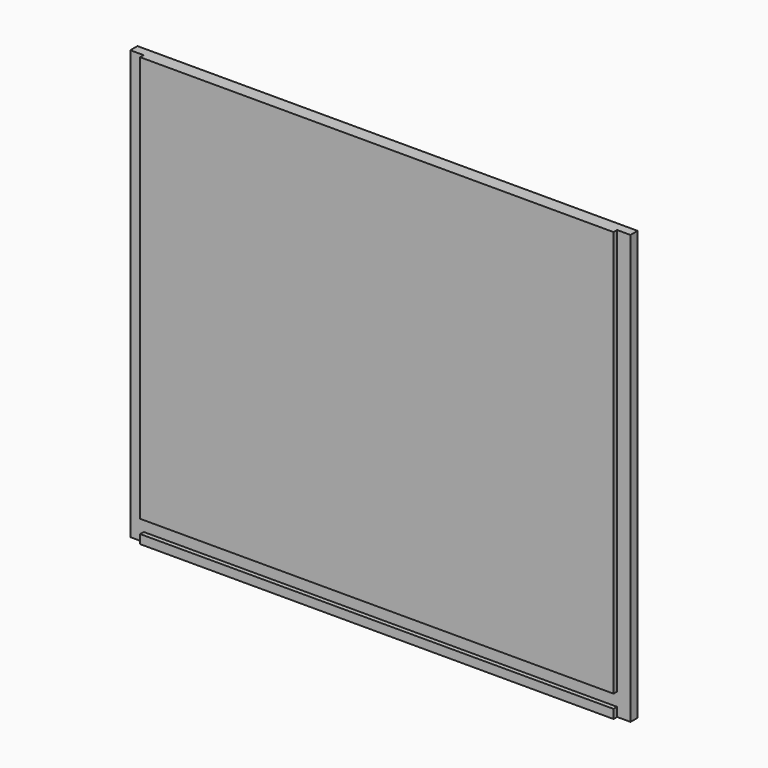
from build123d import *

# Parameters (mm, degrees)
F0_W     = 711.2
F0_H     = 609.6
F1_DEPTH = 19.05
F2_W     = 19.05
F2_H     = 577.85
F2_H_2   = 19.05
F2_H_3   = 12.7
F2_W_2   = 673.1
F3_DEPTH = 6.35


with BuildPart() as f1:
    # F0 (on Front) → F1 (new body)
    with BuildSketch(Plane.XZ):
        Rectangle(F0_W, F0_H)
    extrude(amount=F1_DEPTH)

    # F2 (on face) → F3 (cut)
    with BuildSketch(Plane.XZ.offset(19.05)):
        with Locations((-346.075, 15.875)):
            Rectangle(F2_W, F2_H)
        with Locations((-346.075, -282.575)):
            Rectangle(F2_W, F2_H_2)
        with Locations((-346.075, -298.45)):
            Rectangle(F2_W, F2_H_3)
        with Locations((0, -282.575)):
            Rectangle(F2_W_2, F2_H_2)
        with Locations((346.075, -282.575)):
            Rectangle(F2_W, F2_H_2)
        with Locations((346.075, 15.875)):
            Rectangle(F2_W, F2_H)
        with Locations((346.075, -298.45)):
            Rectangle(F2_W, F2_H_3)
    extrude(amount=-F3_DEPTH, mode=Mode.SUBTRACT)


solid = f1.part
